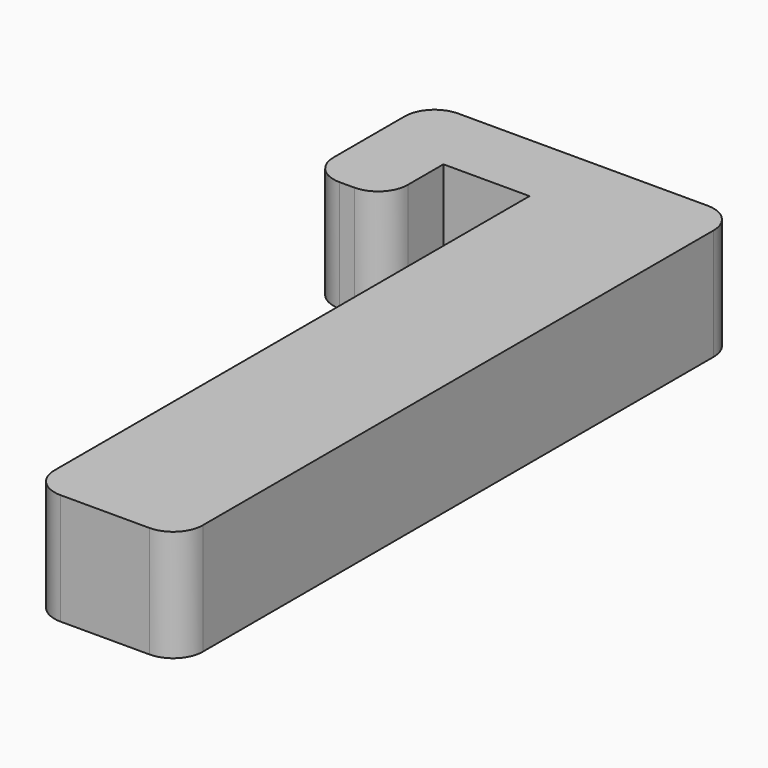
from build123d import *

# Parameters (mm, degrees)
F1_DEPTH = 7.5


with BuildPart() as f1:
    # F0 (on Top) → F1 (new body)
    with BuildSketch(Plane.XY):
        with BuildLine():
            ThreePointArc((0, 2), (0.585786, 0.585786), (2, 0))
            Line((2, 0), (8, 0))
            ThreePointArc((8, 0), (9.414214, 0.585786), (10, 2))
            Line((10, 2), (10, 45))
            ThreePointArc((10, 45), (9.414214, 46.414214), (8, 47))
            Line((8, 47), (-8.8, 47))
            ThreePointArc((-8.8, 47), (-10.214214, 46.414214), (-10.8, 45))
            Line((-10.8, 45), (-10.8, 39))
            ThreePointArc((-10.8, 39), (-10.214214, 37.585786), (-8.8, 37))
            Line((-8.8, 37), (-7.8, 37))
            ThreePointArc((-7.8, 37), (-6.385786, 37.585786), (-5.8, 39))
            Line((-5.8, 39), (-5.8, 42))
            Line((-5.8, 42), (0, 42))
            Line((0, 42), (0, 2))
        make_face()
    extrude(amount=F1_DEPTH)


solid = f1.part
